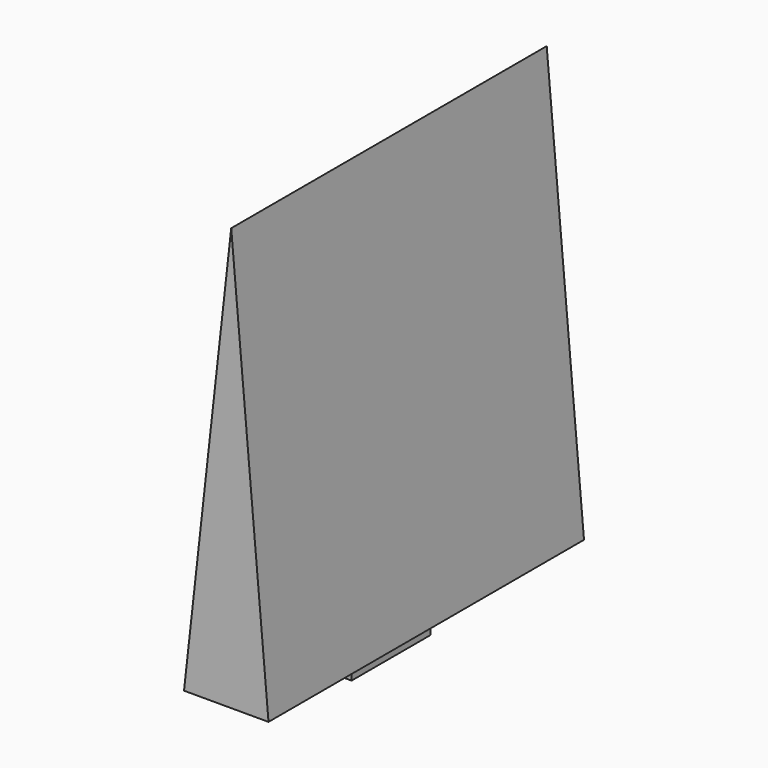
from build123d import *

# Parameters (mm, degrees)
F1_DEPTH = 71.12
F2_W     = 1.27
F2_H     = 1.27
F3_DEPTH = 6.35
F4_W     = 2.54
F4_H     = 2.54
F5_DEPTH = 17.77746


with BuildPart() as f1:
    # F0 (on Front) → F1 (new body)
    with BuildSketch(Plane.XZ):
        Polygon((8.5148252547, 76.2), (0, 0), (15.24, 0), align=None)
    extrude(amount=F1_DEPTH)

    # F2 (on face) → F3 (join)
    with BuildSketch(Plane(origin=(0, 0, 0), x_dir=(1, 0, 0), z_dir=(0, 0, -1))):
        with Locations((8.255, 42.545)):
            Rectangle(F2_W, F2_H)
        with Locations((8.255, 43.815)):
            Rectangle(F2_W, F2_H)
        with Locations((6.985, 43.815)):
            Rectangle(F2_W, F2_H)
        with Locations((6.985, 42.545)):
            Rectangle(F2_W, F2_H)
        with Locations((8.255, 28.575)):
            Rectangle(F2_W, F2_H)
        with Locations((6.985, 28.575)):
            Rectangle(F2_W, F2_H)
        with Locations((6.985, 27.305)):
            Rectangle(F2_W, F2_H)
        with Locations((8.255, 27.305)):
            Rectangle(F2_W, F2_H)
    extrude(amount=F3_DEPTH)

    # F4 (on face) → F5 (join)
    with BuildSketch(Plane.XZ.offset(44.45)):
        with Locations((7.62, -5.08)):
            Rectangle(F4_W, F4_H)
    extrude(amount=-F5_DEPTH)


solid = f1.part
